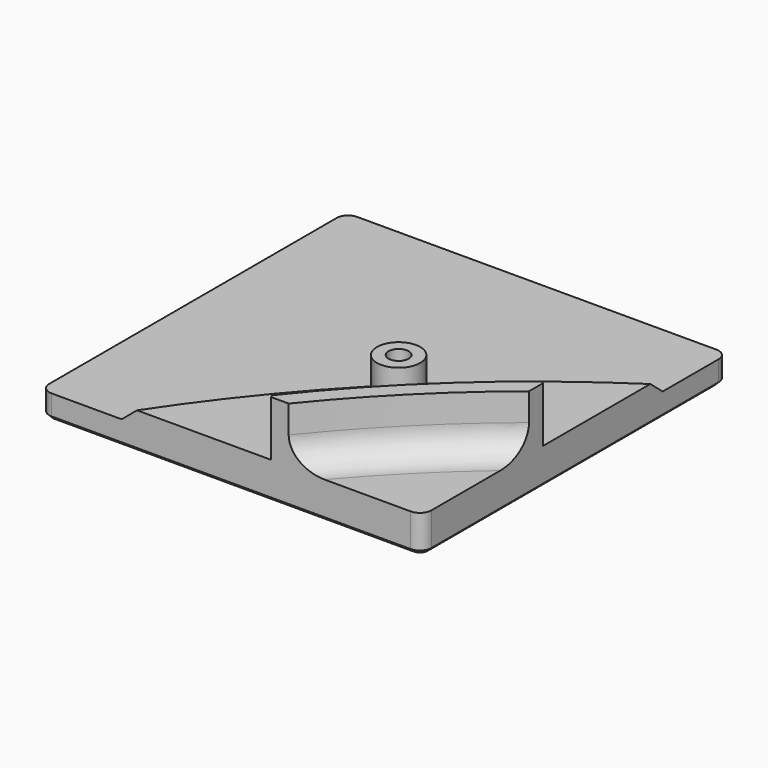
from build123d import *

# Parameters (mm, degrees)
SKETCH297_R       = 1
PAD079_DEPTH      = 6
PAD079_DEPTH_BACK = 4
SKETCH298_R       = 2.35
SKETCH298_R_2     = 1.1
PAD082_DEPTH      = 6
CHAMFER003_SIZE   = 0.4


with BuildPart() as part:
    # Sketch297 → Pad079 (new body, two sides)
    with BuildSketch(Plane.XY) as pad079_sk:
        with BuildLine():
            ThreePointArc((-100.991564, 102.241564), (-101.875447, 101.875447), (-102.241564, 100.991564))
            Line((-102.241564, 61.991564), (-102.241564, 100.991564))
            ThreePointArc((-102.241564, 61.991564), (-101.875447, 61.107681), (-100.991564, 60.741564))
            Line((-61.991564, 60.741564), (-100.991564, 60.741564))
            ThreePointArc((-61.991564, 60.741564), (-61.107681, 61.107681), (-60.741564, 61.991564))
            Line((-60.741564, 100.991564), (-60.741564, 61.991564))
            ThreePointArc((-60.741564, 100.991564), (-61.107681, 101.875447), (-61.991564, 102.241564))
            Line((-100.991564, 102.241564), (-61.991564, 102.241564))
        make_face()
        with Locations((-73.539105, 73.539105)):
            Circle(SKETCH297_R, mode=Mode.SUBTRACT)
    extrude(amount=PAD079_DEPTH)
    extrude(pad079_sk.sketch, amount=-PAD079_DEPTH_BACK)

    # Sketch301 → Groove008 (revolve, cut)
    with BuildSketch(Plane.XZ):
        with BuildLine():
            Line((-96.7, 7), (0, 7))
            Line((0, 0), (0, 7))
            Line((-93.7, 0), (0, 0))
            ThreePointArc((-96.7, 3), (-95.82132, 0.87868), (-93.7, 0))
            Line((-96.7, 7), (-96.7, 3))
        make_face()
        Polygon((-165, 7), (-98.5, 7), (-98.5, 0), (-110, 0), (-111.4, -1.4), (-144.1, -1.4), (-145.5, 0), (-165, 0), align=None)
    revolve(axis=Axis((0, 0, 0), (0, 0, 1)), mode=Mode.SUBTRACT)

    # Sketch298 → Pad082 (join)
    with BuildSketch(Plane.XY):
        with Locations((-73.539105, 73.539105)):
            Circle(SKETCH298_R)
        with Locations((-73.539105, 73.539105)):
            Circle(SKETCH298_R_2, mode=Mode.SUBTRACT)
    extrude(amount=PAD082_DEPTH)

    # Chamfer003
    chamfer003_edges = [part.edges().sort_by_distance(p)[0] for p in [
        (-101.875447, 101.875447, -4),
        (-102.241564, 81.491564, -4),
        (-101.875447, 61.107681, -4),
        (-81.491564, 60.741564, -4),
        (-61.107681, 61.107681, -4),
        (-60.741564, 81.491564, -4),
        (-61.107681, 101.875447, -4),
        (-81.491564, 102.241564, -4),
        (-74.539105, 73.539105, -4),
        (-77.541682, 60.741564, 3),
        (-60.741564, 77.541682, 3),
    ]]
    chamfer(chamfer003_edges, length=CHAMFER003_SIZE)


with BuildPart() as part_1:
    # Body022063 placement: moved
    add(part.part.moved(Location((0, 0, -153))))


solid = part_1.part
